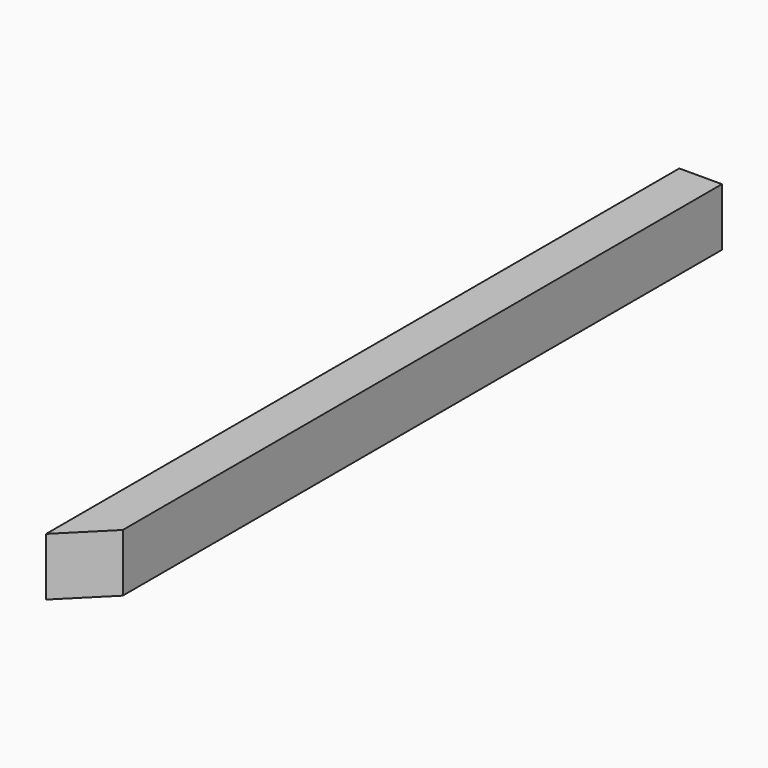
from build123d import *

# Parameters (mm, degrees)
F1_DEPTH = 30.1625
F2_W     = 7.682862
F2_H     = 6.63879
F3_DEPTH = 25.4


with BuildPart() as f1:
    # F0 (on Top) → F1 (new body)
    with BuildSketch(Plane.XY):
        Polygon((22.225, 412.75), (0, 412.75), (0, 0), (22.225, 22.225), align=None)
    extrude(amount=F1_DEPTH)

    # F2 (on face) → F3 (cut)
    with BuildSketch(Plane(origin=(0, 412.75, 0), x_dir=(-1, 0, 0), z_dir=(0, 1, 0))):
        with Locations((-10.191431, 3.319395)):
            Rectangle(F2_W, F2_H)
    extrude(amount=-F3_DEPTH, mode=Mode.SUBTRACT)


solid = f1.part
